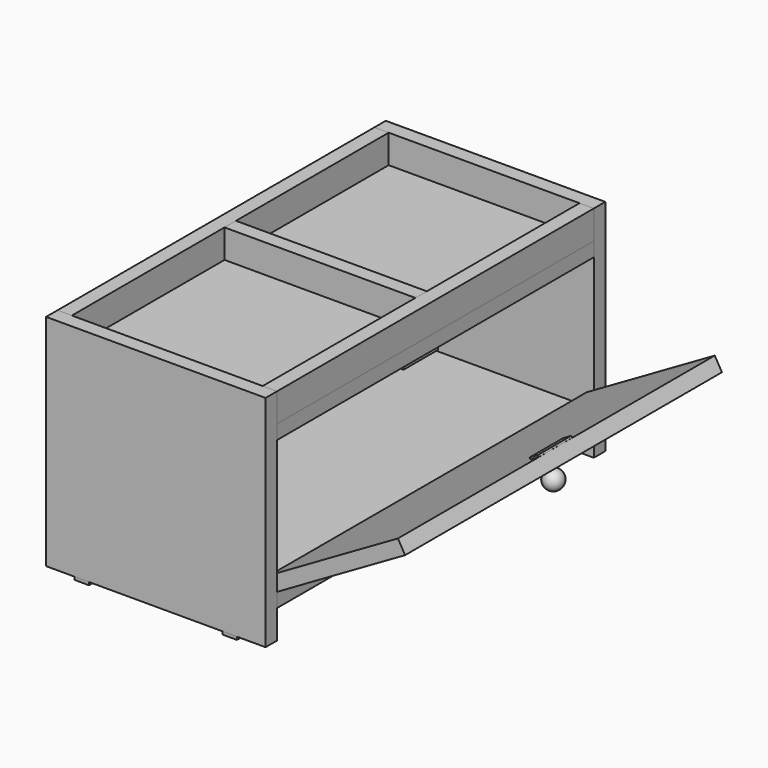
from build123d import *

# Parameters (mm, degrees)
BOX_W              = 230
BOX_H              = 15
BOX_DEPTH          = 230
BOX001_W           = 215
BOX001_H           = 415
BOX001_DEPTH       = 15
BOX002_W           = 230
BOX002_H           = 15
BOX002_DEPTH       = 230
BOX003_W           = 200
BOX003_H           = 15
BOX003_DEPTH       = 30
BOX005_W           = 15
BOX005_H           = 415
BOX005_DEPTH       = 30
BOX006_W           = 15
BOX006_H           = 415
BOX006_DEPTH       = 185
BOX007_W           = 230
BOX007_H           = 415
BOX007_DEPTH       = 15
BOX008_W           = 15
BOX008_H           = 415
BOX008_DEPTH       = 155
BOX008_PITCH_ANGLE = 60
BOX010_W           = 15
BOX010_H           = 45
BOX010_DEPTH       = 15
BOX011_W           = 2
BOX011_H           = 44
BOX011_DEPTH       = 10
BOX011_PITCH_ANGLE = 60
BOX012_W           = 15
BOX012_H           = 15
BOX012_DEPTH       = 3
BOX013_W           = 15
BOX013_H           = 15
BOX013_DEPTH       = 3
BOX014_W           = 15
BOX014_H           = 15
BOX014_DEPTH       = 3
BOX015_W           = 15
BOX015_H           = 15
BOX015_DEPTH       = 3


with BuildPart() as obj1:
    # Box → Box (new body)
    with BuildSketch(Plane.XY):
        with Locations((115, 7.5)):
            Rectangle(BOX_W, BOX_H)
    extrude(amount=BOX_DEPTH)


with BuildPart() as tamposuperiorhorizontal:
    # Box001 → Box001 (new body)
    with BuildSketch(Plane(origin=(15, 15, 185), x_dir=(1, 0, 0), z_dir=(0, 0, 1))):
        with Locations((107.5, 207.5)):
            Rectangle(BOX001_W, BOX001_H)
    extrude(amount=BOX001_DEPTH)


with BuildPart() as obj2:
    # Box002 → Box002 (new body)
    with BuildSketch(Plane(origin=(0, 430, 0), x_dir=(1, 0, 0), z_dir=(0, 0, 1))):
        with Locations((115, 7.5)):
            Rectangle(BOX002_W, BOX002_H)
    extrude(amount=BOX002_DEPTH)


with BuildPart() as obj3:
    # Box003 → Box003 (new body)
    with BuildSketch(Plane(origin=(15, 215, 200), x_dir=(1, 0, 0), z_dir=(0, 0, 1))):
        with Locations((100, 7.5)):
            Rectangle(BOX003_W, BOX003_H)
    extrude(amount=BOX003_DEPTH)


with BuildPart() as obj4:
    # Box005 → Box005 (new body)
    with BuildSketch(Plane(origin=(215, 15, 200), x_dir=(1, 0, 0), z_dir=(0, 0, 1))):
        with Locations((7.5, 207.5)):
            Rectangle(BOX005_W, BOX005_H)
    extrude(amount=BOX005_DEPTH)


with BuildPart() as obj5:
    # Box006 → Box006 (new body)
    with BuildSketch(Plane(origin=(0, 15, 45), x_dir=(1, 0, 0), z_dir=(0, 0, 1))):
        with Locations((7.5, 207.5)):
            Rectangle(BOX006_W, BOX006_H)
    extrude(amount=BOX006_DEPTH)


with BuildPart() as tampoinferiorhorizontal:
    # Box007 → Box007 (new body)
    with BuildSketch(Plane(origin=(0, 15, 30), x_dir=(1, 0, 0), z_dir=(0, 0, 1))):
        with Locations((115, 207.5)):
            Rectangle(BOX007_W, BOX007_H)
    extrude(amount=BOX007_DEPTH)


with BuildPart() as tampabasculante:
    # Box008 → Box008 (new body)
    with BuildSketch(Plane.XY):
        with Locations((7.5, 207.5)):
            Rectangle(BOX008_W, BOX008_H)
    extrude(amount=BOX008_DEPTH)


with BuildPart() as tampabasculante_1:
    # Box008 pitch: moved
    add(tampabasculante.part.rotate(Axis((0, 0, 0), (0, 1, 0)), BOX008_PITCH_ANGLE))


with BuildPart() as tampabasculante_2:
    # Box008 placement: moved
    add(tampabasculante_1.part.moved(Location((222.5, 15, 58))))


with BuildPart() as obj6:
    # Box010 → Box010 (new body)
    with BuildSketch(Plane(origin=(200, 199.5, 170), x_dir=(1, 0, 0), z_dir=(0, 0, 1))):
        with Locations((7.5, 22.5)):
            Rectangle(BOX010_W, BOX010_H)
    extrude(amount=BOX010_DEPTH)


with BuildPart() as obj7:
    # Box011 → Box011 (new body)
    with BuildSketch(Plane.XY):
        with Locations((1, 22)):
            Rectangle(BOX011_W, BOX011_H)
    extrude(amount=BOX011_DEPTH)


with BuildPart() as obj7_1:
    # Box011 pitch: moved
    add(obj7.part.rotate(Axis((0, 0, 0), (0, 1, 0)), BOX011_PITCH_ANGLE))


with BuildPart() as obj7_2:
    # Box011 placement: moved
    add(obj7_1.part.moved(Location((347, 199.5, 132))))


with BuildPart() as puxador:
    # Sphere → Sphere (revolve)
    with BuildSketch(Plane(origin=(354, 222, 105), x_dir=(1, 0, 0), z_dir=(0, -1, 0))):
        with BuildLine():
            ThreePointArc((0, -10), (10, 0), (0, 10))
            Line((0, 10), (0, -10))
        make_face()
    revolve(axis=Axis((354, 222, 105), (0, 0, 1)))


with BuildPart() as cube:
    # Box012 → Box012 (new body)
    with BuildSketch(Plane(origin=(30, 0, -3), x_dir=(1, 0, 0), z_dir=(0, 0, 1))):
        with Locations((7.5, 7.5)):
            Rectangle(BOX012_W, BOX012_H)
    extrude(amount=BOX012_DEPTH)


with BuildPart() as cube001:
    # Box013 → Box013 (new body)
    with BuildSketch(Plane(origin=(185, 0, -3), x_dir=(1, 0, 0), z_dir=(0, 0, 1))):
        with Locations((7.5, 7.5)):
            Rectangle(BOX013_W, BOX013_H)
    extrude(amount=BOX013_DEPTH)


with BuildPart() as cube002:
    # Box014 → Box014 (new body)
    with BuildSketch(Plane(origin=(30, 430, -3), x_dir=(1, 0, 0), z_dir=(0, 0, 1))):
        with Locations((7.5, 7.5)):
            Rectangle(BOX014_W, BOX014_H)
    extrude(amount=BOX014_DEPTH)


with BuildPart() as cube003:
    # Box015 → Box015 (new body)
    with BuildSketch(Plane(origin=(185, 430, -3), x_dir=(1, 0, 0), z_dir=(0, 0, 1))):
        with Locations((7.5, 7.5)):
            Rectangle(BOX015_W, BOX015_H)
    extrude(amount=BOX015_DEPTH)


solid = Compound([obj1.part, tamposuperiorhorizontal.part, obj2.part, obj3.part, obj4.part, obj5.part, tampoinferiorhorizontal.part, tampabasculante_2.part, obj6.part, obj7_2.part, puxador.part, cube.part, cube001.part, cube002.part, cube003.part])
